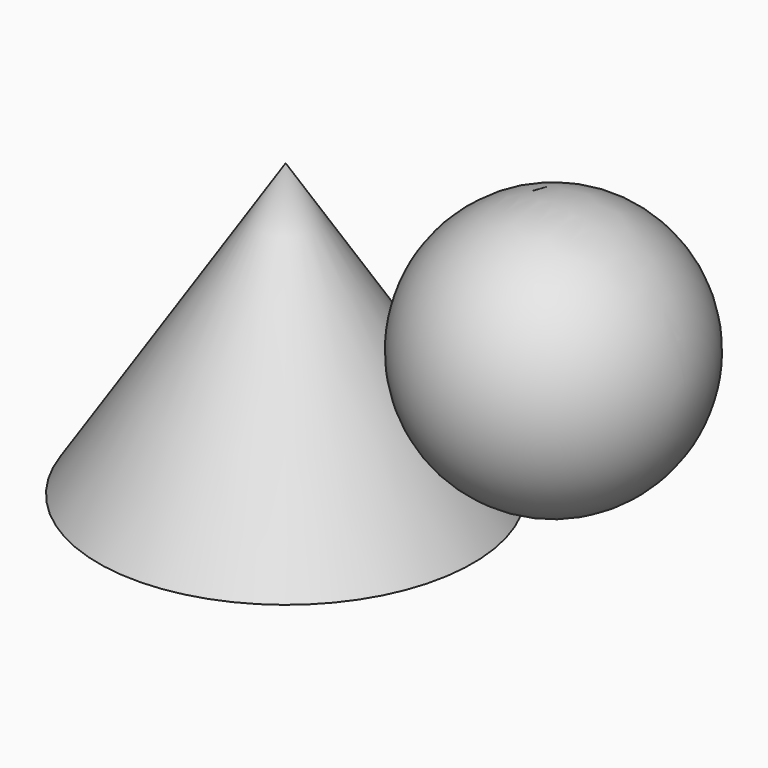
from build123d import *

# Parameters (mm, degrees)
F4_T = -5.08


with BuildPart() as f1:
    # F0 (on Front) → F1 (revolve)
    with BuildSketch(Plane.XZ):
        with BuildLine():
            ThreePointArc((57.9012525599, 0), (20.1156660914, 37.7855864685), (-17.6699203771, 0))
            Line((-17.6699203771, 0), (57.9012525599, 0))
        make_face()
    revolve(axis=Axis((20.1156660914, 0, 0), (1, 0, 0)))


with BuildPart() as f3:
    # F2 (on Front) → F3 (revolve)
    with BuildSketch(Plane.XZ):
        Polygon((-110.4290708899, -61.2241178751), (-56.7206591368, -61.2241178751), (-56.7206591368, 22.399937734), align=None)
    revolve(axis=Axis((-56.7206591368, 0, -19.4120900705), (0, 0, 1)))

    # F4
    f4_openings = [f3.faces().sort_by_distance(p)[0] for p in [
        (-56.720659, 0, -61.224118),
    ]]
    offset(amount=F4_T, openings=f4_openings)


solid = Compound([f1.part, f3.part])
